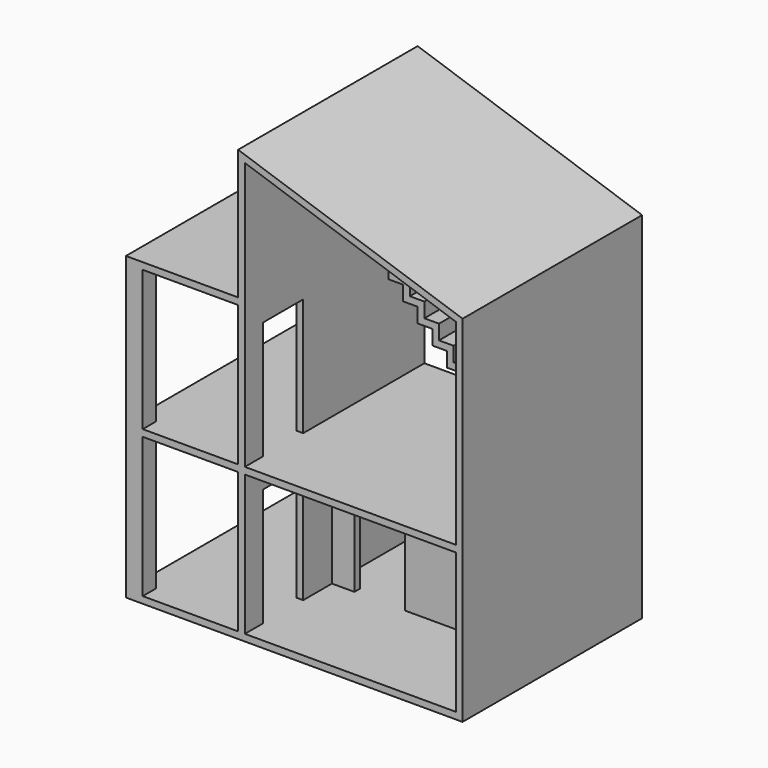
from build123d import *

# Parameters (mm, degrees)
F0_W      = 12
F0_H      = 358
F0_W_2    = 18
F0_H_2    = 18
F0_W_3    = 170
F0_H_3    = 12
F0_W_4    = 376
F0_H_4    = 182
F1_DEPTH  = 12
F2_DEPTH  = 250
F3_W      = 90
F3_H      = 210
F4_DEPTH  = 206.001
F5_W      = 90
F5_H      = 210
F6_DEPTH  = 25
F7_W      = 600
F7_H      = 400
F8_DEPTH  = 12
F11_DEPTH = 400
F12_W     = 90
F12_H     = 200
F12_H_2   = 210
F13_DEPTH = 20
F9_W      = 30
F9_H      = 30
F14_DEPTH = 250
F15_DEPTH = 250
F17_DEPTH = 130
F19_DEPTH = 160


with BuildPart() as f1:
    # F0 (on Top) → F1 (new body)
    with BuildSketch(Plane.XY):
        with Locations((6, 209)):
            Rectangle(F0_W, F0_H)
        Polygon((0, 400), (0, 388), (12, 388), (200, 388), (200, 400), align=None)
        Polygon((30, 30), (30, 12), (200, 12), (200, 388), (12, 388), (12, 30), align=None)
        Polygon((0, 30), (0, 0), (30, 0), (30, 12), (12, 12), (12, 30), align=None)
        with Locations((21, 21)):
            Rectangle(F0_W_2, F0_H_2)
        with Locations((115, 6)):
            Rectangle(F0_W_3, F0_H_3)
        Polygon((200, 388), (200, 12), (212, 12), (212, 194), (212, 206), (212, 388), align=None)
        with Locations((206, 6)):
            Rectangle(F0_W, F0_H_3)
        with Locations((400, 6)):
            Rectangle(F0_W_4, F0_H_3)
        with Locations((400, 103)):
            Rectangle(F0_W_4, F0_H_4)
        with Locations((400, 200)):
            Rectangle(F0_W_4, F0_H_3)
        with Locations((400, 297)):
            Rectangle(F0_W_4, F0_H_4)
        with Locations((400, 394)):
            Rectangle(F0_W_4, F0_H_3)
        with Locations((594, 200)):
            Rectangle(F0_W, F0_H_3)
        with Locations((206, 394)):
            Rectangle(F0_W, F0_H_3)
        Polygon((0, 400), (0, 388), (12, 388), (200, 388), (200, 400), align=None)
        Polygon((588, 400), (588, 388), (588, 206), (600, 206), (600, 400), align=None)
        Polygon((588, 12), (588, 0), (600, 0), (600, 194), (588, 194), align=None)
    extrude(amount=-F1_DEPTH)

    # F0 (on Top) → F2 (join)
    with BuildSketch(Plane.XY):
        Polygon((0, 400), (0, 388), (12, 388), (200, 388), (200, 400), align=None)
        with Locations((206, 394)):
            Rectangle(F0_W, F0_H_3)
        Polygon((200, 388), (200, 12), (212, 12), (212, 194), (212, 206), (212, 388), align=None)
        with Locations((206, 6)):
            Rectangle(F0_W, F0_H_3)
        with Locations((21, 21)):
            Rectangle(F0_W_2, F0_H_2)
        Polygon((0, 30), (0, 0), (30, 0), (30, 12), (12, 12), (12, 30), align=None)
        with Locations((400, 200)):
            Rectangle(F0_W_4, F0_H_3)
        with Locations((594, 200)):
            Rectangle(F0_W, F0_H_3)
        Polygon((588, 400), (588, 388), (588, 206), (600, 206), (600, 400), align=None)
        Polygon((588, 12), (588, 0), (600, 0), (600, 194), (588, 194), align=None)
    extrude(amount=F2_DEPTH)

    # F3 (on face) → F4 (cut, through all)
    with BuildSketch(Plane.XZ.offset(-194)):
        with Locations((297, 105)):
            Rectangle(F3_W, F3_H)
    extrude(amount=-F4_DEPTH, mode=Mode.SUBTRACT)

    # F5 (on face) → F6 (cut)
    with BuildSketch(Plane(origin=(200, 0, 0), x_dir=(0, -1, 0), z_dir=(-1, 0, 0))):
        with Locations((-85, 105)):
            Rectangle(F5_W, F5_H)
    extrude(amount=-F6_DEPTH, mode=Mode.SUBTRACT)

    # F7 (on face) → F8 (join)
    with BuildSketch(Plane.XY.offset(250)):
        with Locations((300, 200)):
            Rectangle(F7_W, F7_H)
    extrude(amount=F8_DEPTH)

    # F10 (on face) → F11 (join)
    with BuildSketch(Plane.XZ):
        Polygon((0, 524), (0, 512), (12, 512), (200, 512), (200, 262), (212, 262), (212, 524), (212, 739), (588, 612), (588, 262), (600, 262), (600, 620.6128402984), (200, 755.7192232772), (200, 524), align=None)
    extrude(amount=-F11_DEPTH)

    # F12 (on face) → F13 (cut)
    with BuildSketch(Plane(origin=(200, 0, 0), x_dir=(0, -1, 0), z_dir=(-1, 0, 0))):
        with Locations((-317.7582192421, 624)):
            Rectangle(F12_W, F12_H)
        with Locations((-85, 367)):
            Rectangle(F12_W, F12_H_2)
    extrude(amount=-F13_DEPTH, mode=Mode.SUBTRACT)

    # F9 (on face) → F14 (join)
    with BuildSketch(Plane.XY.offset(262)):
        with Locations((15, 15)):
            Rectangle(F9_W, F9_H)
    extrude(amount=F14_DEPTH)

    # F9 (on face) → F15 (join)
    with BuildSketch(Plane.XY.offset(262)):
        Polygon((212, 400), (0, 400), (0, 388), (200, 388), (212, 388), align=None)
    extrude(amount=F15_DEPTH)

    # F16 (on face) → F17 (join)
    with BuildSketch(Plane(origin=(0, 400, 0), x_dir=(-1, 0, 0), z_dir=(0, 1, 0))):
        Polygon((-212, 262), (-212, 524), (-238, 524), (-238, 497.8), (-264, 497.8), (-264, 471.6), (-290, 471.6), (-290, 445.4), (-316, 445.4), (-316, 419.2), (-342, 419.2), (-342, 393), (-368, 393), (-368, 366.8), (-394, 366.8), (-394, 340.6), (-420, 340.6), (-420, 314.4), (-446, 314.4), (-446, 288.2), (-472, 288.2), (-472, 262), align=None)
    extrude(amount=-F17_DEPTH)

    # F18 (on face) → F19 (cut)
    with BuildSketch(Plane.XZ.offset(-270)):
        Polygon((212, 262), (460, 262), (460, 276.2), (434, 276.2), (434, 302.4), (408, 302.4), (408, 328.6), (382, 328.6), (382, 354.8), (356, 354.8), (356, 381), (330, 381), (330, 407.2), (304, 407.2), (304, 433.4), (278, 433.4), (278, 459.6), (252, 459.6), (252, 485.8), (226, 485.8), (226, 512), (212, 512), align=None)
    extrude(amount=-F19_DEPTH, mode=Mode.SUBTRACT)


solid = f1.part
